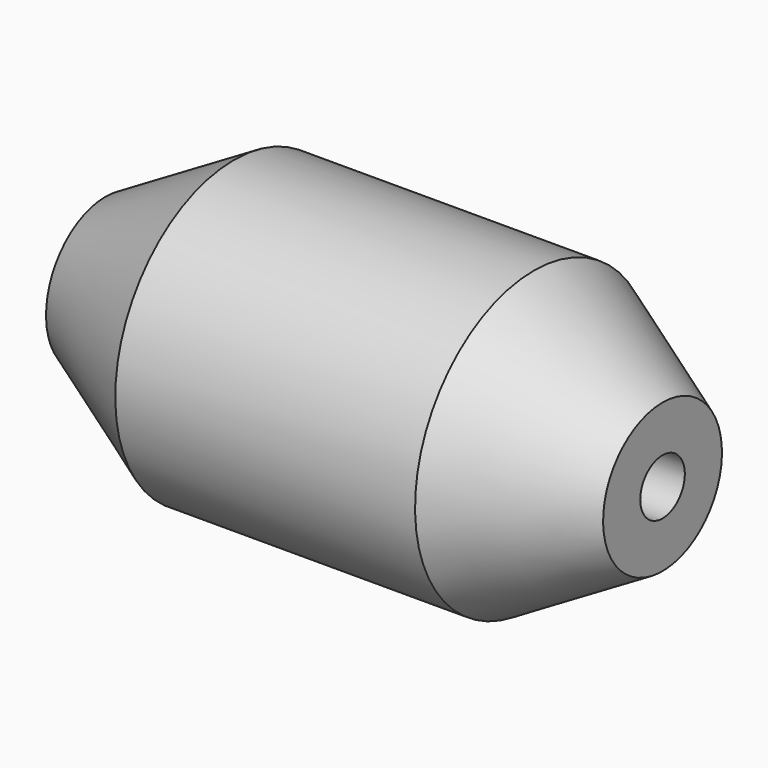
from build123d import *

# Parameters (mm, degrees)
F2_R     = 4.7625
F3_DEPTH = 95.251


with BuildPart() as f1:
    # F0 (on Front) → F1 (revolve)
    with BuildSketch(Plane.XZ):
        Polygon((0, 12.7), (0, 0), (95.25, 0), (95.25, 12.7), (73.252955, 25.4), (21.997045, 25.4), align=None)
    revolve(axis=Axis((47.625, 0, 0), (-1, 0, 0)))

    # F2 (on face) → F3 (cut, through all)
    with BuildSketch(Plane(origin=(0, 0, 0), x_dir=(0, -1, 0), z_dir=(-1, 0, 0))):
        Circle(F2_R)
    extrude(amount=-F3_DEPTH, mode=Mode.SUBTRACT)


solid = f1.part
